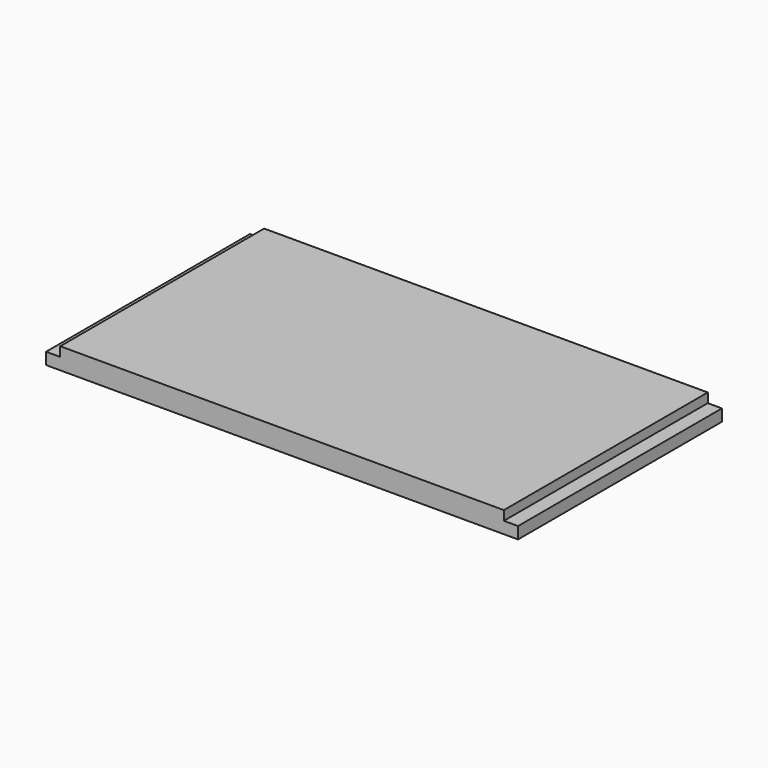
from build123d import *

# Parameters (mm, degrees)
F0_W     = 7.62
F0_H     = 137.16
F0_W_2   = 238.76
F1_DEPTH = 6.35
F2_DEPTH = 11.43


with BuildPart() as f1:
    # F0 (on Top) → F1 (new body)
    with BuildSketch(Plane.XY):
        with Locations((-123.19, 0)):
            Rectangle(F0_W, F0_H)
        Rectangle(F0_W_2, F0_H)
        with Locations((123.19, 0)):
            Rectangle(F0_W, F0_H)
    extrude(amount=F1_DEPTH)

    # F0 (on Top) → F2 (join)
    with BuildSketch(Plane.XY):
        Rectangle(F0_W_2, F0_H)
    extrude(amount=F2_DEPTH)


solid = f1.part
